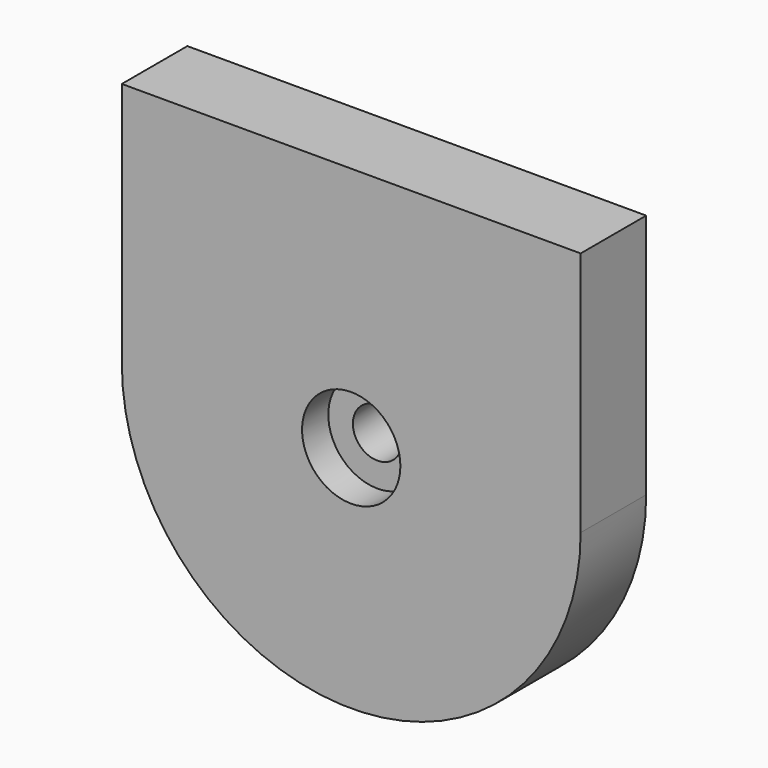
from build123d import *

# Parameters (mm, degrees)
PAD_DEPTH       = 5
SKETCH001_R     = 4
SKETCH001_R_2   = 2.4
PAD001_DEPTH    = 7
SKETCH002_R     = 1.5
POCKET_DEPTH    = 12.001
SKETCH003_R     = 3
POCKET001_DEPTH = 2
CHAMFER_SIZE    = 1


with BuildPart() as part:
    # Sketch → Pad (new body)
    with BuildSketch(Plane.XZ):
        with BuildLine():
            Line((-14, 15), (-14, 0))
            ThreePointArc((-14, 0), (0, -14), (14, 0))
            Line((14, 0), (14, 15))
            Line((14, 15), (-14, 15))
        make_face()
    extrude(amount=PAD_DEPTH)

    # Sketch001 (on Face5 of Pad) → Pad001 (join)
    with BuildSketch(Plane(origin=(0, 0, 0), x_dir=(1, 0, 0), z_dir=(0, 1, 0))):
        Circle(SKETCH001_R)
        Circle(SKETCH001_R_2, mode=Mode.SUBTRACT)
    extrude(amount=PAD001_DEPTH)

    # Sketch002 (on Face5 of Pad001) → Pocket (cut, through all)
    with BuildSketch(Plane.XZ.offset(5)):
        Circle(SKETCH002_R)
    extrude(amount=-POCKET_DEPTH, mode=Mode.SUBTRACT)

    # Sketch003 (on Face5 of Pocket) → Pocket001 (cut)
    with BuildSketch(Plane.XZ.offset(5)):
        Circle(SKETCH003_R)
    extrude(amount=-POCKET001_DEPTH, mode=Mode.SUBTRACT)

    # Chamfer
    chamfer_edges = [part.edges().sort_by_distance(p)[0] for p in [
        (-4, 0, 0),
    ]]
    chamfer(chamfer_edges, length=CHAMFER_SIZE)


solid = part.part
